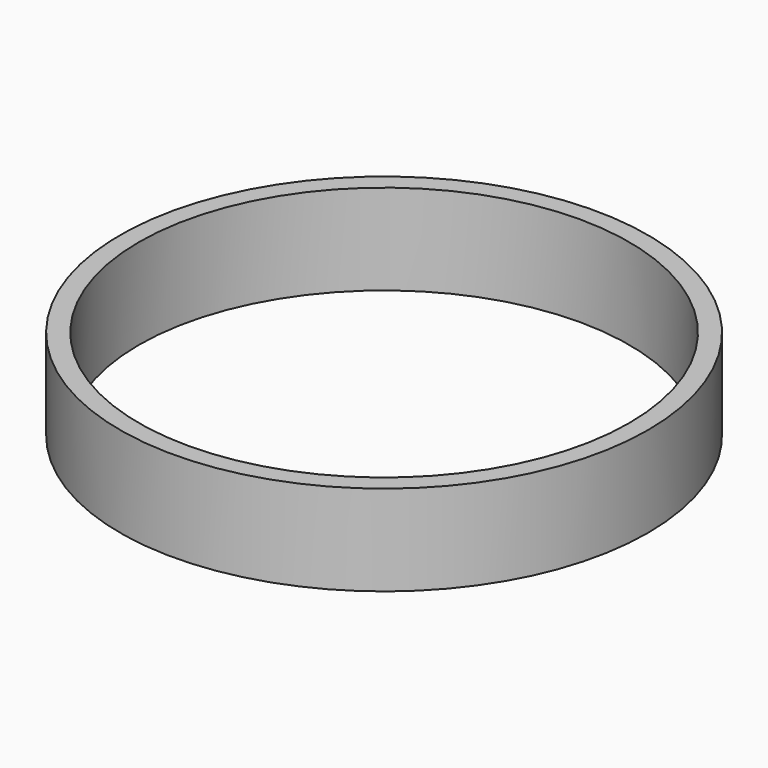
from build123d import *

# Parameters (mm, degrees)
SKETCH_R   = 70
SKETCH_R_2 = 65
PAD_DEPTH  = 24


with BuildPart() as part:
    # Sketch → Pad (new body)
    with BuildSketch(Plane.XY):
        Circle(SKETCH_R)
        Circle(SKETCH_R_2, mode=Mode.SUBTRACT)
    extrude(amount=PAD_DEPTH)


solid = part.part
